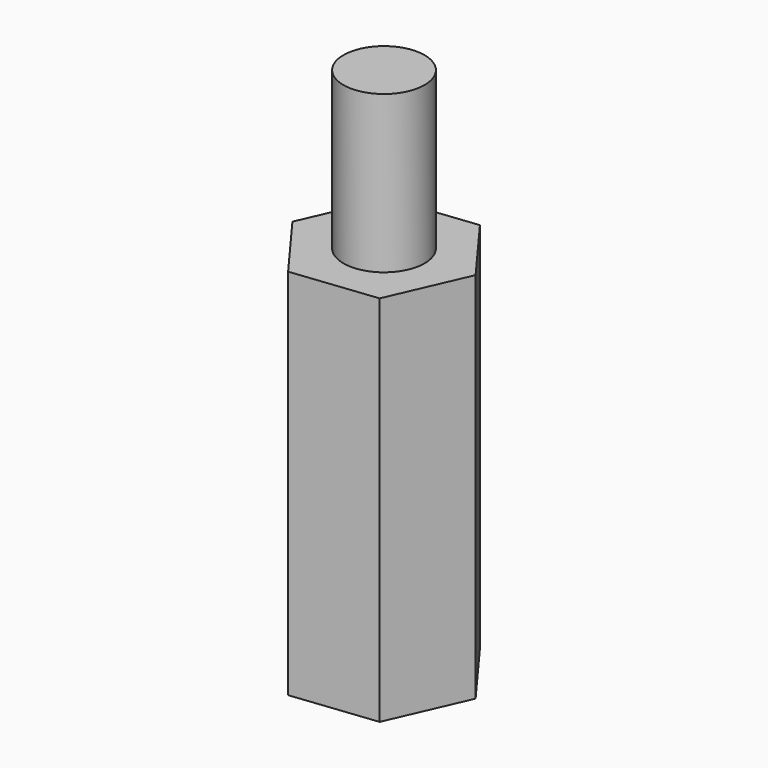
from build123d import *

# Parameters (mm, degrees)
F1_DEPTH = 14.25
F2_R     = 1.25
F3_DEPTH = 10
F4_R     = 1.55
F5_DEPTH = 6


with BuildPart() as f1:
    # F0 (on Top) → F1 (new body)
    with BuildSketch(Plane.XY):
        Polygon((-1.917285, 2.603335), (-3.213197, -0.35875), (-1.295912, -2.962085), (1.917285, -2.603335), (3.213197, 0.35875), (1.295912, 2.962085), align=None)
    extrude(amount=F1_DEPTH)

    # F2 (on face) → F3 (cut)
    with BuildSketch(Plane(origin=(0, 0, 0), x_dir=(1, 0, 0), z_dir=(0, 0, -1))):
        Circle(F2_R)
    extrude(amount=-F3_DEPTH, mode=Mode.SUBTRACT)

    # F4 (on face) → F5 (join)
    with BuildSketch(Plane.XY.offset(14.25)):
        Circle(F4_R)
    extrude(amount=F5_DEPTH)


solid = f1.part
